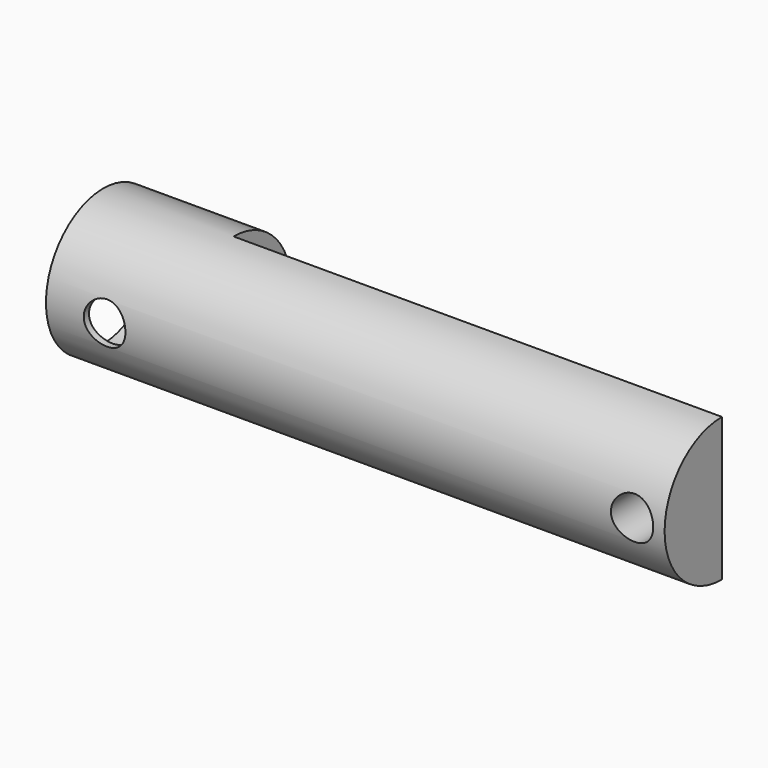
from build123d import *

# Parameters (mm, degrees)
F0_R     = 11
F1_DEPTH = 20
F2_R     = 10
F3_DEPTH = 14
F5_DEPTH = 75
F6_R     = 3.2
F6_R_2   = 3.25
F7_DEPTH = 12.5


with BuildPart() as f1:
    # F0 (on Right) → F1 (new body)
    with BuildSketch(Plane.YZ):
        Circle(F0_R)
    extrude(amount=F1_DEPTH)

    # F2 (on face) → F3 (cut)
    with BuildSketch(Plane(origin=(0, 0, 0), x_dir=(0, -1, 0), z_dir=(-1, 0, 0))):
        Circle(F2_R)
    extrude(amount=-F3_DEPTH, mode=Mode.SUBTRACT)

    # F4 (on face) → F5 (join)
    with BuildSketch(Plane.YZ.offset(20)):
        with BuildLine():
            Line((0, -11), (0, 11))
            ThreePointArc((0, 11), (-11, 0), (0, -11))
        make_face()
    extrude(amount=F5_DEPTH)

    # F6 (on Front) → F7 (cut, symmetric)
    with BuildSketch(Plane.XZ):
        with Locations((9, 0)):
            Circle(F6_R)
        with Locations((90, 0)):
            Circle(F6_R_2)
    extrude(amount=F7_DEPTH, both=True, mode=Mode.SUBTRACT)


solid = f1.part
